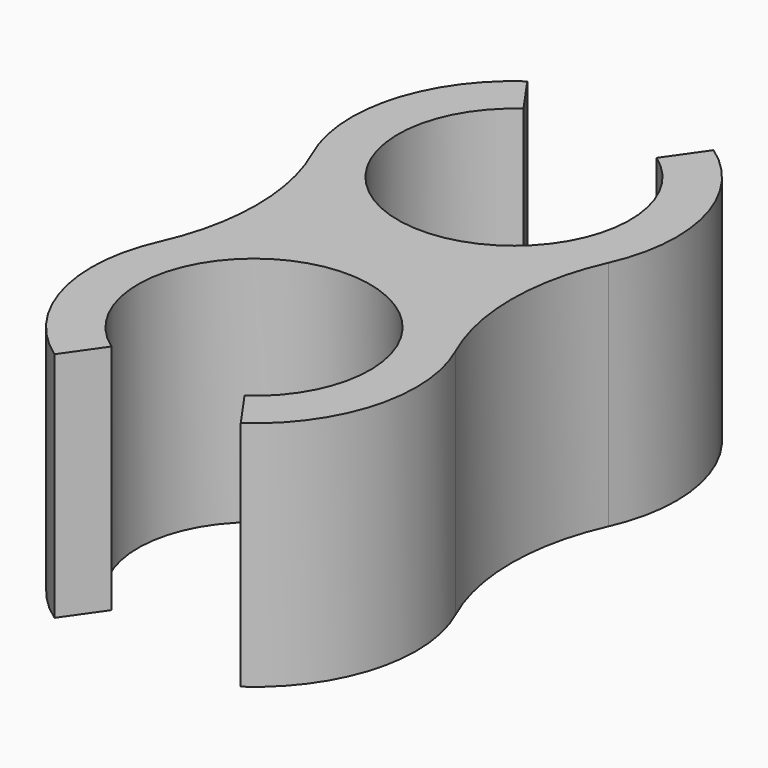
from build123d import *

# Parameters (mm, degrees)
F1_DEPTH = 6.35


with BuildPart() as f1:
    # F0 (on Top) → F1 (new body)
    with BuildSketch(Plane.XY):
        with BuildLine():
            ThreePointArc((1.821105, 7.045808), (0, 1.27), (-1.821105, 7.045808))
            Line((-1.821105, 7.045808), (-2.549547, 8.086131))
            ThreePointArc((-2.549547, 8.086131), (-4.286594, 5.621068), (-4.050685, 2.614706))
            ThreePointArc((-4.050685, 2.614706), (-3.487378, 0), (-4.050685, -2.614706))
            ThreePointArc((-4.050685, -2.614706), (-4.286594, -5.621068), (-2.549547, -8.086131))
            Line((-2.549547, -8.086131), (-1.821105, -7.045808))
            ThreePointArc((-1.821105, -7.045808), (0, -1.27), (1.821105, -7.045808))
            Line((1.821105, -7.045808), (2.549547, -8.086131))
            ThreePointArc((2.549547, -8.086131), (4.286594, -5.621068), (4.050685, -2.614706))
            ThreePointArc((4.050685, -2.614706), (3.487378, 0), (4.050685, 2.614706))
            ThreePointArc((4.050685, 2.614706), (4.286594, 5.621068), (2.549547, 8.086131))
            Line((2.549547, 8.086131), (1.821105, 7.045808))
        make_face()
    extrude(amount=F1_DEPTH)


solid = f1.part
